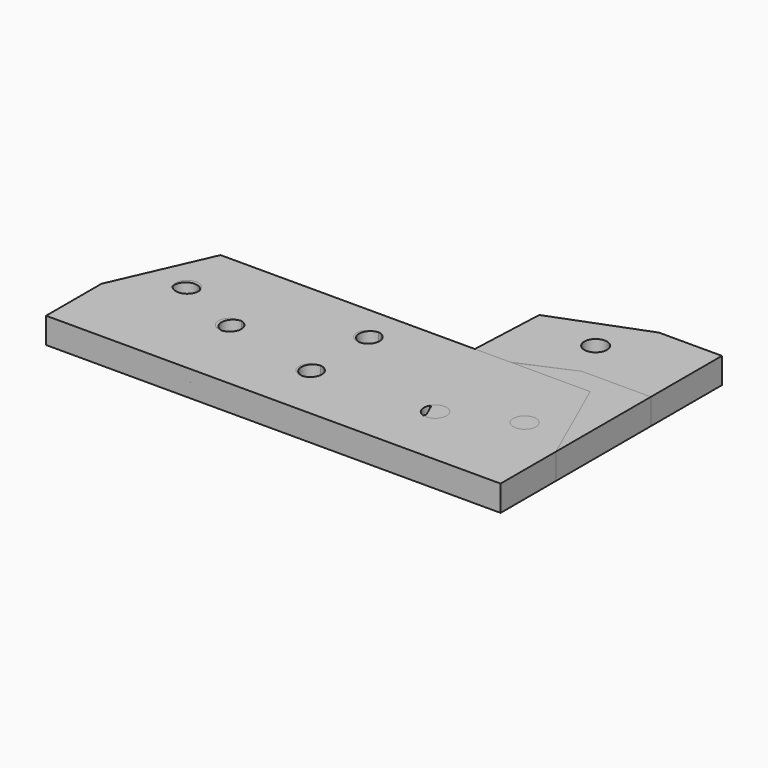
from build123d import *

# Parameters (mm, degrees)
F0_R      = 11
F1_DEPTH  = 25
F2_R      = 11
F3_DEPTH  = 25
F4_R      = 11
F5_DEPTH  = 25
F6_R      = 11
F7_DEPTH  = 25
F8_R      = 11
F9_DEPTH  = 25
F10_R     = 11
F11_DEPTH = 25


with BuildPart() as f1:
    # F0 (on Top) → F1 (new body)
    with BuildSketch(Plane.XY):
        Polygon((-160, 0), (0, 0), (0, 268), (-61, 268), (-149.690141, 233.955045), align=None)
        with Locations((-125, 56)):
            Circle(F0_R, mode=Mode.SUBTRACT)
        with Locations((-55, 56)):
            Circle(F0_R, mode=Mode.SUBTRACT)
        with Locations((-84.954706, 221.314575)):
            Circle(F0_R, mode=Mode.SUBTRACT)
        with Locations((-59.868949, 155.963945)):
            Circle(F0_R, mode=Mode.SUBTRACT)
    extrude(amount=F1_DEPTH)


with BuildPart() as f3:
    # F2 (on Top) → F3 (new body)
    with BuildSketch(Plane.XY):
        Polygon((-93, 0), (0, 0), (0, 181), (-61, 181), (-149.633614, 146.808153), align=None)
        with Locations((-74.523209, 63.241252)):
            Circle(F2_R, mode=Mode.SUBTRACT)
        with Locations((-99.717201, 128.550231)):
            Circle(F2_R, mode=Mode.SUBTRACT)
    extrude(amount=F3_DEPTH)


with BuildPart() as f5:
    # F4 (on Top) → F5 (new body)
    with BuildSketch(Plane.XY):
        Polygon((-437, 0), (0, 0), (0, 61), (-37.997461, 160), (-398.997461, 160), (-437, 61), align=None)
        with Locations((-226, 55)):
            Circle(F4_R, mode=Mode.SUBTRACT)
        with Locations((-319, 74.663457)):
            Circle(F4_R, mode=Mode.SUBTRACT)
        with Locations((-112, 60.897517)):
            Circle(F4_R, mode=Mode.SUBTRACT)
        with Locations((-385, 99.998484)):
            Circle(F4_R, mode=Mode.SUBTRACT)
        with Locations((-226, 125)):
            Circle(F4_R, mode=Mode.SUBTRACT)
        with Locations((-47, 85.848679)):
            Circle(F4_R, mode=Mode.SUBTRACT)
    extrude(amount=F5_DEPTH)


with BuildPart() as f7:
    # F6 (on Top) → F7 (new body)
    with BuildSketch(Plane.XY):
        Polygon((-91, 0), (0, 0), (0, 182), (-67, 182), (-154.760157, 144.563628), align=None)
        with Locations((-62.576046, 69.732929)):
            Circle(F6_R, mode=Mode.SUBTRACT)
        with Locations((-90.041812, 134.119509)):
            Circle(F6_R, mode=Mode.SUBTRACT)
    extrude(amount=F7_DEPTH)


with BuildPart() as f9:
    # F8 (on Top) → F9 (new body)
    with BuildSketch(Plane.XY):
        Polygon((-91, 0), (0, 0), (0, 182), (-67, 182), (-154.356612, 143.648668), align=None)
        with Locations((-75.467549, 63.609359)):
            Circle(F8_R, mode=Mode.SUBTRACT)
        with Locations((-103.606637, 127.704535)):
            Circle(F8_R, mode=Mode.SUBTRACT)
    extrude(amount=F9_DEPTH)


with BuildPart() as f11:
    # F10 (on Top) → F11 (new body)
    with BuildSketch(Plane.XY):
        Polygon((-440.229085, 0), (0, 0), (0, 67), (-41.211198, 160), (-399.211198, 160), (-440.229085, 67), align=None)
        with Locations((-228.229085, 55)):
            Circle(F10_R, mode=Mode.SUBTRACT)
        with Locations((-322.229085, 75.067738)):
            Circle(F10_R, mode=Mode.SUBTRACT)
        with Locations((-112.229085, 61.21885)):
            Circle(F10_R, mode=Mode.SUBTRACT)
        with Locations((-386.229085, 103.295101)):
            Circle(F10_R, mode=Mode.SUBTRACT)
        with Locations((-228.229085, 125)):
            Circle(F10_R, mode=Mode.SUBTRACT)
        with Locations((-48.229085, 89.446213)):
            Circle(F10_R, mode=Mode.SUBTRACT)
    extrude(amount=F11_DEPTH)


solid = Compound([f1.part, f3.part, f5.part, f7.part, f9.part, f11.part])
